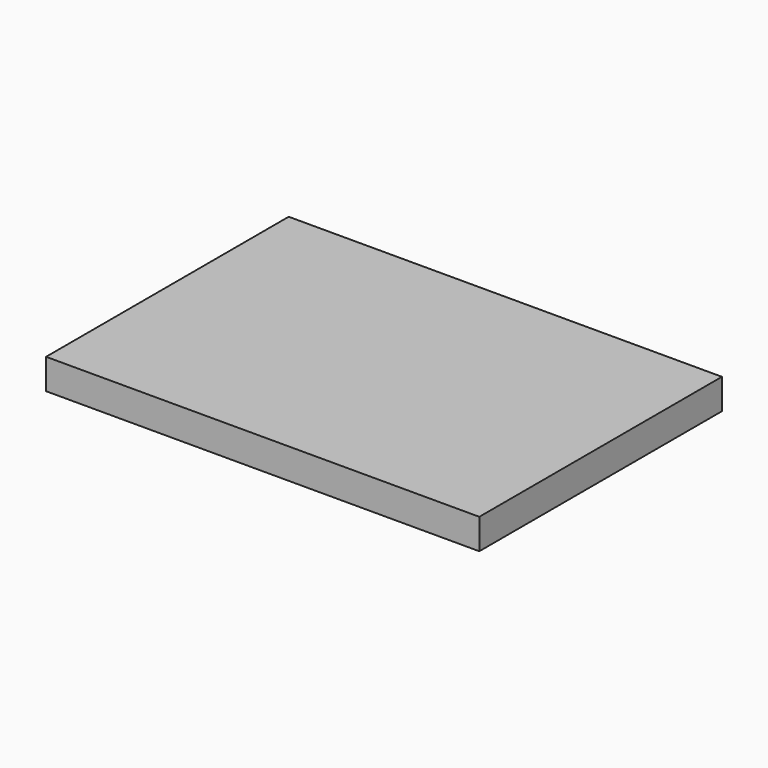
from build123d import *

# Parameters (mm, degrees)
RECTANGLE003_W   = 70
RECTANGLE003_H   = 50
EXTRUDE_DEPTH    = 1.5
RECTANGLE001_W   = 4
RECTANGLE001_H   = 0.5
EXTRUDE001_DEPTH = 1.5
RECTANGLE005_W   = 100
RECTANGLE005_H   = 70
EXTRUDE003_DEPTH = 3
RECTANGLE004_W   = 100
RECTANGLE004_H   = 70
EXTRUDE002_DEPTH = 4
RECTANGLE_W      = 49.9
RECTANGLE_H      = 32.3
EXTRUDE004_DEPTH = 0.035
RECTANGLE002_W   = 70
RECTANGLE002_H   = 50
EXTRUDE005_DEPTH = 0.035


with BuildPart() as substrate_box:
    # Rectangle003 → Extrude (new body)
    with BuildSketch(Plane(origin=(10, -60, 0), x_dir=(1, 0, 0), z_dir=(0, 0, 1))):
        with Locations((35, 25)):
            Rectangle(RECTANGLE003_W, RECTANGLE003_H)
    extrude(amount=EXTRUDE_DEPTH)


with BuildPart() as excitation_box:
    # Rectangle001 → Extrude001 (new body)
    with BuildSketch(Plane(origin=(43, -52, 0), x_dir=(1, 0, 0), z_dir=(0, 0, 1))):
        with Locations((2, 0.25)):
            Rectangle(RECTANGLE001_W, RECTANGLE001_H)
    extrude(amount=EXTRUDE001_DEPTH)


with BuildPart() as air_box_bottom:
    # Rectangle005 → Extrude003 (new body)
    with BuildSketch(Plane(origin=(0, -70, 0), x_dir=(1, 0, 0), z_dir=(0, 0, 1))):
        with Locations((50, 35)):
            Rectangle(RECTANGLE005_W, RECTANGLE005_H)
    extrude(amount=-EXTRUDE003_DEPTH)


with BuildPart() as air_box:
    # Rectangle004 → Extrude002 (new body)
    with BuildSketch(Plane(origin=(0, -70, 0), x_dir=(1, 0, 0), z_dir=(0, 0, 1))):
        with Locations((50, 35)):
            Rectangle(RECTANGLE004_W, RECTANGLE004_H)
    extrude(amount=EXTRUDE002_DEPTH)

    # Fusion: union air box bottom
    add(air_box_bottom.part)


with BuildPart() as obj1:
    # Rectangle → Extrude004 (new body)
    with BuildSketch(Plane(origin=(20.023, -52, 1.5), x_dir=(1, 0, 0), z_dir=(0, 0, 1))):
        with Locations((24.95, 16.15)):
            Rectangle(RECTANGLE_W, RECTANGLE_H)
    extrude(amount=EXTRUDE004_DEPTH)


with BuildPart() as gnd001:
    # Rectangle002 → Extrude005 (new body)
    with BuildSketch(Plane(origin=(10, -60, 0), x_dir=(1, 0, 0), z_dir=(0, 0, 1))):
        with Locations((35, 25)):
            Rectangle(RECTANGLE002_W, RECTANGLE002_H)
    extrude(amount=-EXTRUDE005_DEPTH)


solid = Compound([substrate_box.part, excitation_box.part, air_box.part, obj1.part, gnd001.part])
